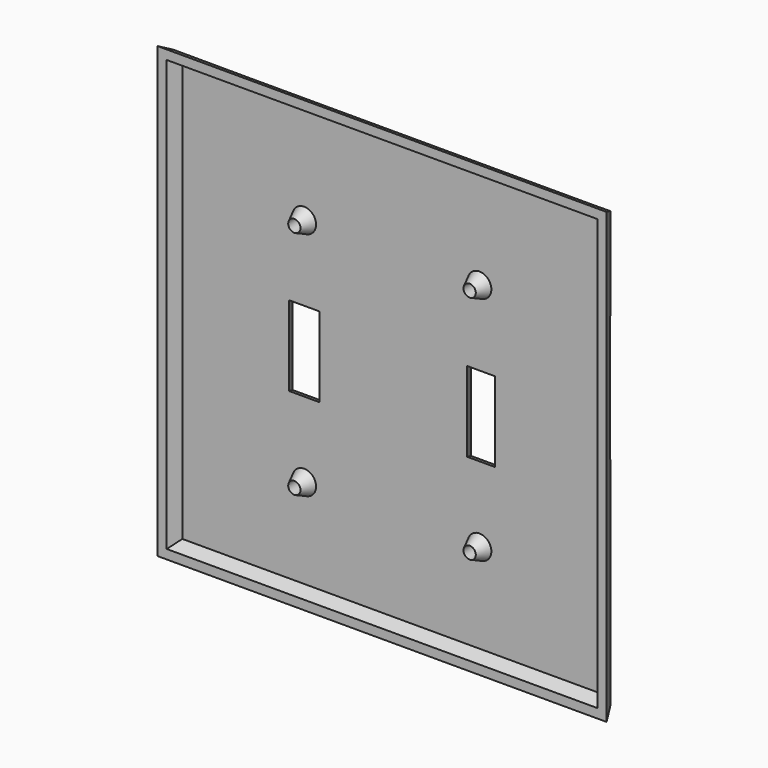
from build123d import *

# Parameters (mm, degrees)
F0_W           = 109.5375
F0_H           = 109.5375
F0_W_2         = 11.1125
F0_H_2         = 23.8125
F0_W_3         = 10.31875
F1_DEPTH       = 6.35
F1_TAPER       = -26.565
F2_D           = 3.175
F2_DEPTH       = 9.525
F2_CSINK_D     = 6.35
F2_CSINK_ANGLE = 90
F2_TIP         = 0.9538662327
F3_D           = 3.175
F3_DEPTH       = 9.525
F3_CSINK_D     = 6.35
F3_CSINK_ANGLE = 90
F3_TIP         = 0.9538662327
F4_D           = 3.175
F4_DEPTH       = 9.525
F4_CSINK_D     = 6.35
F4_CSINK_ANGLE = 90
F4_TIP         = 0.9538662327
F5_D           = 3.175
F5_DEPTH       = 9.525
F5_CSINK_D     = 6.35
F5_CSINK_ANGLE = 90
F5_TIP         = 0.9538662327
F6_R           = 6.35
F7_W           = 111.125
F7_H           = 111.125
F7_R           = 1.5875
F7_W_2         = 4.7625141797
F7_H_2         = 17.4625141797
F7_W_3         = 3.9687641797
F8_DEPTH       = 3.175
F8_TAPER       = 25


with BuildPart() as f1:
    # F0 (on Front) → F1 (new body)
    with BuildSketch(Plane.XZ):
        with Locations((0.79375, 3.095625)):
            Rectangle(F0_W, F0_H)
        with Locations((-21.828125, 1.905)):
            Rectangle(F0_W_2, F0_H_2, mode=Mode.SUBTRACT)
        with Locations((23.8125, 1.905)):
            Rectangle(F0_W_3, F0_H_2, mode=Mode.SUBTRACT)
    extrude(amount=F1_DEPTH, taper=F1_TAPER)

    # F2
    with Locations(Plane(origin=(0, 0, 0), x_dir=(1, 0, 0), z_dir=(0, 1, 0))):
        with Locations((-21.828125, -31.670625)):
            CounterSinkHole(F2_D / 2, F2_CSINK_D / 2, depth=F2_DEPTH, counter_sink_angle=F2_CSINK_ANGLE)
            with Locations((0, 0, -(F2_DEPTH + F2_TIP / 2))):  # 118° drill point
                Cone(0, F2_D / 2, F2_TIP, mode=Mode.SUBTRACT)

    # F3
    with Locations(Plane(origin=(0, 0, 0), x_dir=(1, 0, 0), z_dir=(0, 1, 0))):
        with Locations((23.415625, -31.670625)):
            CounterSinkHole(F3_D / 2, F3_CSINK_D / 2, depth=F3_DEPTH, counter_sink_angle=F3_CSINK_ANGLE)
            with Locations((0, 0, -(F3_DEPTH + F3_TIP / 2))):  # 118° drill point
                Cone(0, F3_D / 2, F3_TIP, mode=Mode.SUBTRACT)

    # F4
    with Locations(Plane(origin=(0, 0, 0), x_dir=(1, 0, 0), z_dir=(0, 1, 0))):
        with Locations((23.415625, 27.860625)):
            CounterSinkHole(F4_D / 2, F4_CSINK_D / 2, depth=F4_DEPTH, counter_sink_angle=F4_CSINK_ANGLE)
            with Locations((0, 0, -(F4_DEPTH + F4_TIP / 2))):  # 118° drill point
                Cone(0, F4_D / 2, F4_TIP, mode=Mode.SUBTRACT)

    # F5
    with Locations(Plane(origin=(0, 0, 0), x_dir=(1, 0, 0), z_dir=(0, 1, 0))):
        with Locations((-21.828125, 27.860625)):
            CounterSinkHole(F5_D / 2, F5_CSINK_D / 2, depth=F5_DEPTH, counter_sink_angle=F5_CSINK_ANGLE)
            with Locations((0, 0, -(F5_DEPTH + F5_TIP / 2))):  # 118° drill point
                Cone(0, F5_D / 2, F5_TIP, mode=Mode.SUBTRACT)

    # F6
    f6_edges = [f1.edges().sort_by_distance(p)[0] for p in [
        (0.79375, 0, 57.864375),
        (55.5625, 0, 3.095625),
        (-53.975, 0, 3.095625),
        (0.79375, 0, -51.673125),
    ]]
    fillet(f6_edges, radius=F6_R)

    # F7 (on face) → F8 (cut)
    with BuildSketch(Plane.XZ.offset(6.35)):
        with Locations((0.79375, 3.095625)):
            Rectangle(F7_W, F7_H)
        with Locations((-21.828125, -27.860625)):
            Circle(F7_R, mode=Mode.SUBTRACT)
        with Locations((-21.828125, 1.905)):
            Rectangle(F7_W_2, F7_H_2, mode=Mode.SUBTRACT)
        with Locations((23.415625, -27.860625)):
            Circle(F7_R, mode=Mode.SUBTRACT)
        with Locations((23.8125, 1.905)):
            Rectangle(F7_W_3, F7_H_2, mode=Mode.SUBTRACT)
        with Locations((-21.828125, 31.670625)):
            Circle(F7_R, mode=Mode.SUBTRACT)
        with Locations((23.415625, 31.670625)):
            Circle(F7_R, mode=Mode.SUBTRACT)
    extrude(amount=-F8_DEPTH, taper=F8_TAPER, mode=Mode.SUBTRACT)


solid = f1.part
